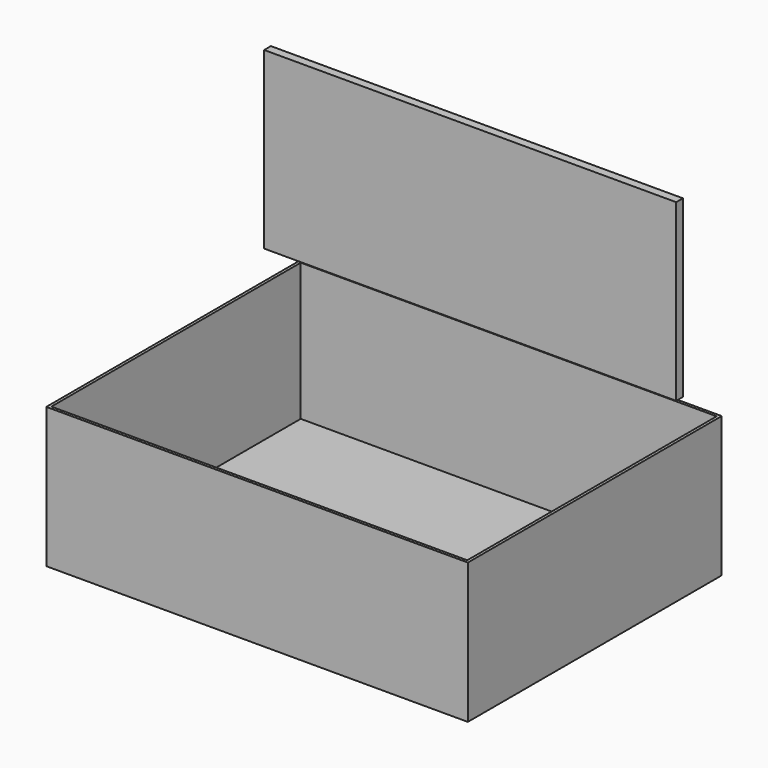
from build123d import *

# Parameters (mm, degrees)
F0_W     = 381.645173
F0_H     = 287.268385
F1_DEPTH = 127
F2_T     = -2.54
F3_W     = 373.081997
F3_H     = 158.306822
F4_DEPTH = 7.62


with BuildPart() as f1:
    # F0 (on Top) → F1 (new body)
    with BuildSketch(Plane.XY):
        with Locations((-5.27358, -18.674351)):
            Rectangle(F0_W, F0_H)
    extrude(amount=F1_DEPTH)

    # F2
    f2_openings = [f1.faces().sort_by_distance(p)[0] for p in [
        (-5.273581, -18.674351, 127),
    ]]
    offset(amount=F2_T, openings=f2_openings)


with BuildPart() as f4:
    # F3 (on Front) → F4 (new body)
    with BuildSketch(Plane.XZ):
        with Locations((63.913486, 293.310799)):
            Rectangle(F3_W, F3_H)
    extrude(amount=F4_DEPTH)


solid = Compound([f1.part, f4.part])
